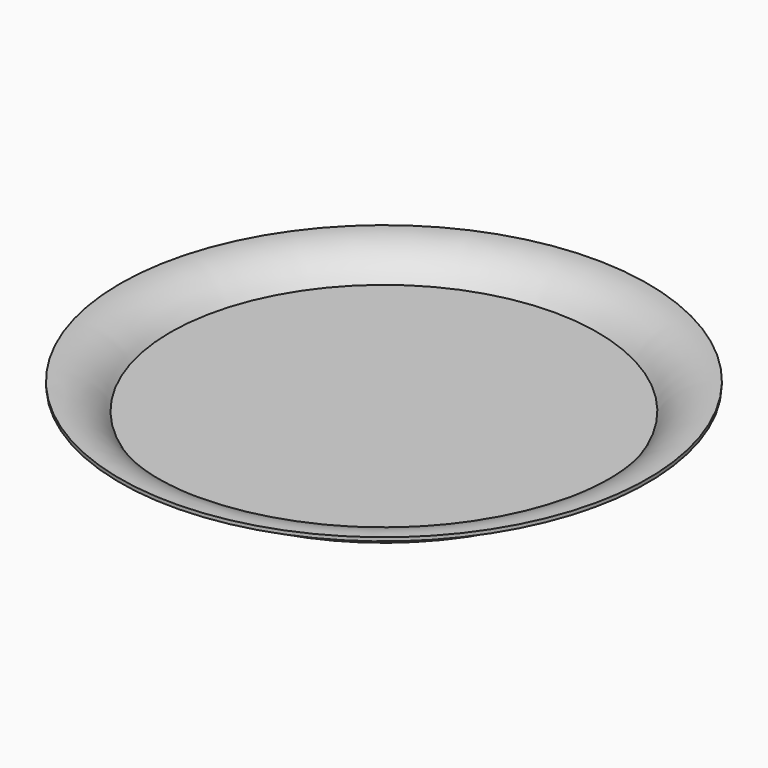
from build123d import *


with BuildPart() as f1:
    # F0 (on Front) → F1 (revolve)
    with BuildSketch(Plane.XZ):
        with BuildLine():
            Line((0, -1.5875), (0, 0))
            Line((0, 0), (-91.234431, 0))
            ThreePointArc((-91.234431, 0), (-100.428632, 8.6394), (-112.770897, 11.254943))
            Line((-112.770897, 11.254943), (-112.669513, 9.670683))
            ThreePointArc((-112.669513, 9.670683), (-100.773953, 7.023597), (-92.150703, -1.5875))
            Line((-92.150703, -1.5875), (0, -1.5875))
        make_face()
    revolve(axis=Axis((0, 0, 36.733754), (0, 0, 1)))


solid = f1.part
